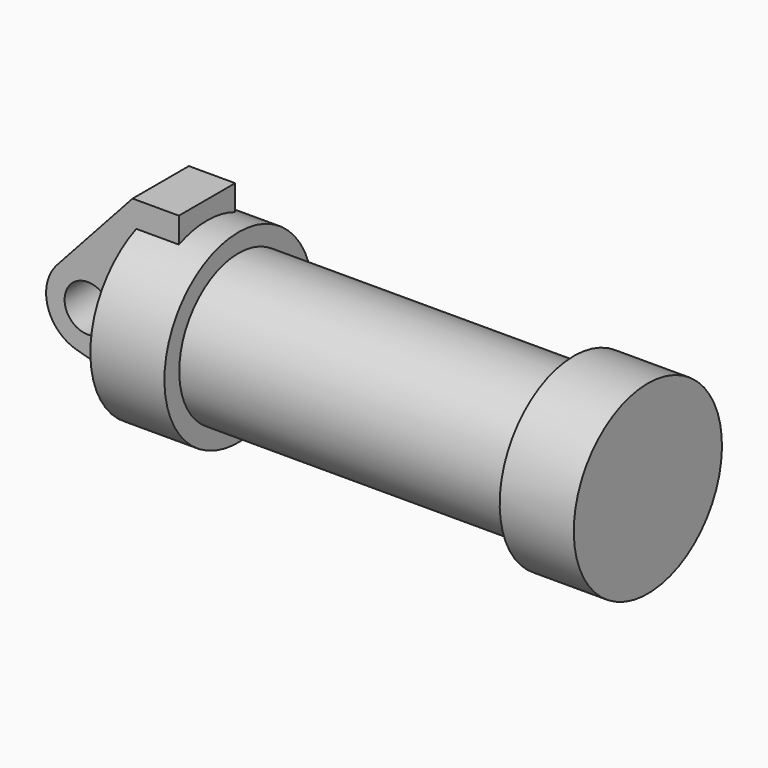
from build123d import *

# Parameters (mm, degrees)
F0_W     = 5.842
F0_H     = 12.7
F0_R     = 3.175
F2_DEPTH = 4.826


with BuildPart() as f1:
    # F0 (on Front) → F1 (revolve)
    with BuildSketch(Plane.XZ):
        Polygon((5.842, 12.7), (5.842, 0), (66.294, 0), (66.294, 12.7), (56.134, 12.7), (56.134, 10.16), (10.16, 10.16), (10.16, 12.7), align=None)
        with Locations((2.921, 6.35)):
            Rectangle(F0_W, F0_H)
    revolve(axis=Axis((33.147, 0, 0), (-1, 0, 0)))

    # F0 (on Front) → F2 (join, symmetric)
    with BuildSketch(Plane.XZ):
        with BuildLine():
            Line((-0.9398, 0), (0, 0))
            Line((0, 0), (0, 12.7))
            Line((0, 12.7), (5.842, 12.7))
            Line((5.842, 12.7), (5.842, 15.24))
            Line((5.842, 15.24), (-0.508, 15.24))
            Line((-0.508, 15.24), (-10.8806298187, 3.8475430269))
            ThreePointArc((-10.8806298187, 3.8475430269), (-4.5919612295, 5.3297205562), (-0.9398, 0))
        make_face()
        with BuildLine():
            ThreePointArc((-8.1826630726, -5.5069827884), (-3.1957909266, -4.5493385486), (-0.9398, 0))
            ThreePointArc((-0.9398, 0), (-4.5919612295, 5.3297205562), (-10.8806298187, 3.8475430269))
            ThreePointArc((-10.8806298187, 3.8475430269), (-12.1459778134, -1.5837270034), (-8.1826630726, -5.5069827884))
        make_face()
        with Locations((-6.6548, 0)):
            Circle(F0_R, mode=Mode.SUBTRACT)
        with BuildLine():
            Line((5.842, 0), (0, 0))
            Line((0, 0), (-0.9398, 0))
            ThreePointArc((-0.9398, 0), (-3.1957909266, -4.5493385486), (-8.1826630726, -5.5069827884))
            Line((-8.1826630726, -5.5069827884), (5.842, -9.398))
            Line((5.842, -9.398), (5.842, 0))
        make_face()
        with Locations((2.921, 6.35)):
            Rectangle(F0_W, F0_H)
    extrude(amount=F2_DEPTH, both=True)


solid = f1.part
